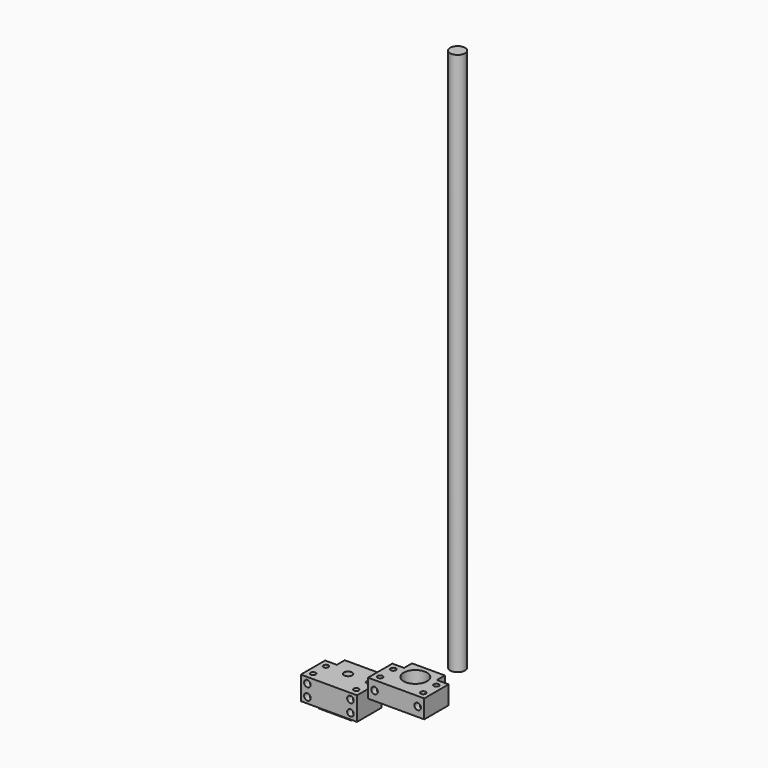
from build123d import *

# Parameters (mm, degrees)
F1_DEPTH  = 25
F2_D      = 5.5
F2_DEPTH  = 25
F2_TIP    = 1.6523667023
F4_DEPTH  = 6
F6_D      = 12
F6_DEPTH  = 30
F6_TIP    = 3.6051637142
F8_D      = 7
F8_DEPTH  = 40
F8_TIP    = 2.1030121666
F9_R      = 12.5
F10_DEPTH = 19.7
F11_D     = 5.5
F11_DEPTH = 40
F11_TIP   = 1.6523667023
F13_D     = 7
F13_DEPTH = 40
F13_TIP   = 2.1030121666
F14_R     = 8
F15_DEPTH = 580


with BuildPart() as f1:
    # F0 (on Top) → F1 (new body)
    with BuildSketch(Plane.XY):
        Polygon((-59.5379599452, -5.3200572729), (-59.5379599452, -37.8200572729), (0.4620400548, -37.8200572729), (0.4620400548, -5.3200572729), (-11.9879599452, -5.3200572729), (-11.9879599452, 5.2799427271), (-47.0879599452, 5.2799427271), (-47.0879599452, -5.3200572729), align=None)
    extrude(amount=-F1_DEPTH)

    # F2
    with Locations(Plane.XY):
        with Locations((-52.5379599452, -13.0700572729), (-52.5379599452, -30.0700572729), (-6.5379599452, -13.0700572729), (-6.5379599452, -30.0700572729)):
            Hole(F2_D / 2, depth=F2_DEPTH)
            with Locations((0, 0, -(F2_DEPTH + F2_TIP / 2))):  # 118° drill point
                Cone(0, F2_D / 2, F2_TIP, mode=Mode.SUBTRACT)

    # F3 (on face) → F4 (join)
    with BuildSketch(Plane(origin=(0, 0, -25), x_dir=(1, 0, 0), z_dir=(0, 0, -1))):
        Polygon((-47.0879599452, 5.3200572729), (-47.0879599452, -5.2799427271), (-11.9879599452, -5.2799427271), (-11.9879599452, 5.3200572729), (-11.9879599452, 29.8200572729), (-47.0879599452, 29.8200572729), align=None)
    extrude(amount=F4_DEPTH)

    # F6
    with Locations(Plane(origin=(0, 0, -31), x_dir=(1, 0, 0), z_dir=(0, 0, -1))):
        with Locations((-29.5379599452, 12.2700572729)):
            Hole(F6_D / 2, depth=F6_DEPTH)
            with Locations((0, 0, -(F6_DEPTH + F6_TIP / 2))):  # 118° drill point
                Cone(0, F6_D / 2, F6_TIP, mode=Mode.SUBTRACT)

    # F8
    with Locations(Plane(origin=(0, -5.3200572729, 0), x_dir=(-1, 0, 0), z_dir=(0, 1, 0))):
        with Locations((6.5379599452, -18.75), (6.5379599452, -6.25), (52.5379599452, -6.25), (52.5379599452, -18.75)):
            Hole(F8_D / 2, depth=F8_DEPTH)
            with Locations((0, 0, -(F8_DEPTH + F8_TIP / 2))):  # 118° drill point
                Cone(0, F8_D / 2, F8_TIP, mode=Mode.SUBTRACT)


with BuildPart() as f10:
    # F9 (on Top) → F10 (new body)
    with BuildSketch(Plane.XY):
        Polygon((11.3455553353, -36.7517445982), (71.3455553353, -36.7517445982), (71.3455553353, -4.2517445982), (58.8455553353, -4.2517445982), (58.8455553353, 6.3482554018), (23.8455553353, 6.3482554018), (23.8455553353, -4.2517445982), (11.3455553353, -4.2517445982), align=None)
        with Locations((41.3455553353, -11.1517445982)):
            Circle(F9_R, mode=Mode.SUBTRACT)
    extrude(amount=F10_DEPTH)

    # F11
    with Locations(Plane(origin=(0, 0, 0), x_dir=(1, 0, 0), z_dir=(0, 0, -1))):
        with Locations((18.3455553353, 29.2517445982), (18.3455553353, 11.7517445982), (64.3455553353, 29.2517445982), (64.3455553353, 11.7517445982)):
            Hole(F11_D / 2, depth=F11_DEPTH)
            with Locations((0, 0, -(F11_DEPTH + F11_TIP / 2))):  # 118° drill point
                Cone(0, F11_D / 2, F11_TIP, mode=Mode.SUBTRACT)

    # F13
    with Locations(Plane.XZ.offset(36.7517445982)):
        with Locations((18.3455553353, 9.85), (64.3455553353, 9.85)):
            Hole(F13_D / 2, depth=F13_DEPTH)
            with Locations((0, 0, -(F13_DEPTH + F13_TIP / 2))):  # 118° drill point
                Cone(0, F13_D / 2, F13_TIP, mode=Mode.SUBTRACT)


with BuildPart() as f15:
    # F14 (on Top) → F15 (new body)
    with BuildSketch(Plane.XY):
        with Locations((34.882158041, 53.3705838025)):
            Circle(F14_R)
    extrude(amount=F15_DEPTH)


solid = Compound([f1.part, f10.part, f15.part])
